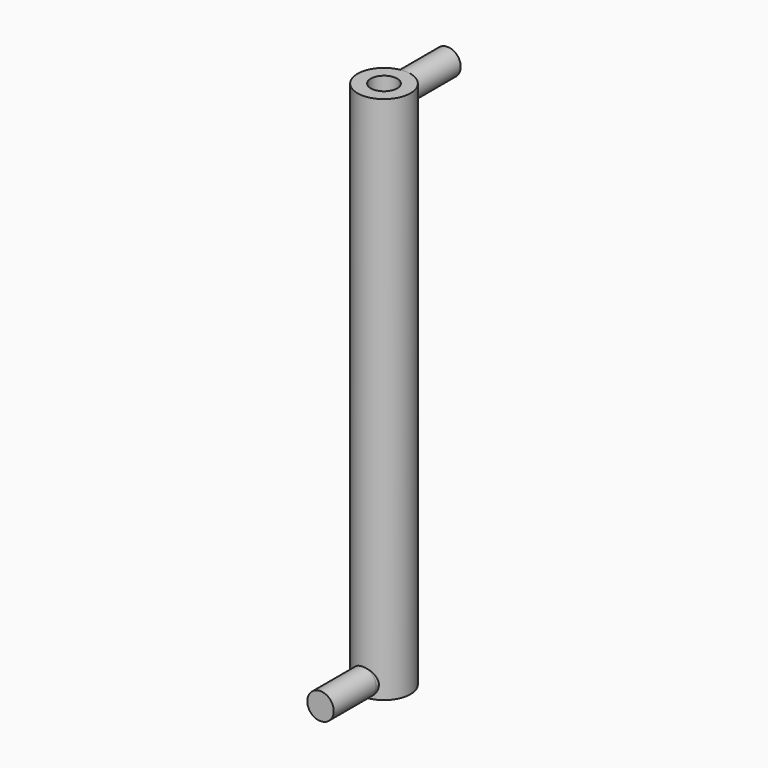
from build123d import *

# Parameters (mm, degrees)
F0_R          = 50
F0_R_2        = 25
F1_DEPTH      = 1000
F5_R          = 25
F6_DEPTH      = 100
F6_DEPTH_BACK = 7
F3_R          = 25
F7_DEPTH      = 100
F7_DEPTH_BACK = 7


with BuildPart() as f1:
    # F0 (on Top) → F1 (new body)
    with BuildSketch(Plane.XY):
        Circle(F0_R)
        Circle(F0_R_2, mode=Mode.SUBTRACT)
    extrude(amount=F1_DEPTH)

    # F5 (on offset) → F6 (join, two sides)
    with BuildSketch(Plane.XZ.offset(-50)) as f6_sk:
        with Locations((0, 975)):
            Circle(F5_R)
    extrude(amount=-F6_DEPTH)
    extrude(f6_sk.sketch, amount=F6_DEPTH_BACK)

    # F3 (on offset) → F7 (join, two sides)
    with BuildSketch(Plane.XZ.offset(50)) as f7_sk:
        with Locations((0, 25)):
            Circle(F3_R)
    extrude(amount=F7_DEPTH)
    extrude(f7_sk.sketch, amount=-F7_DEPTH_BACK)


solid = f1.part
